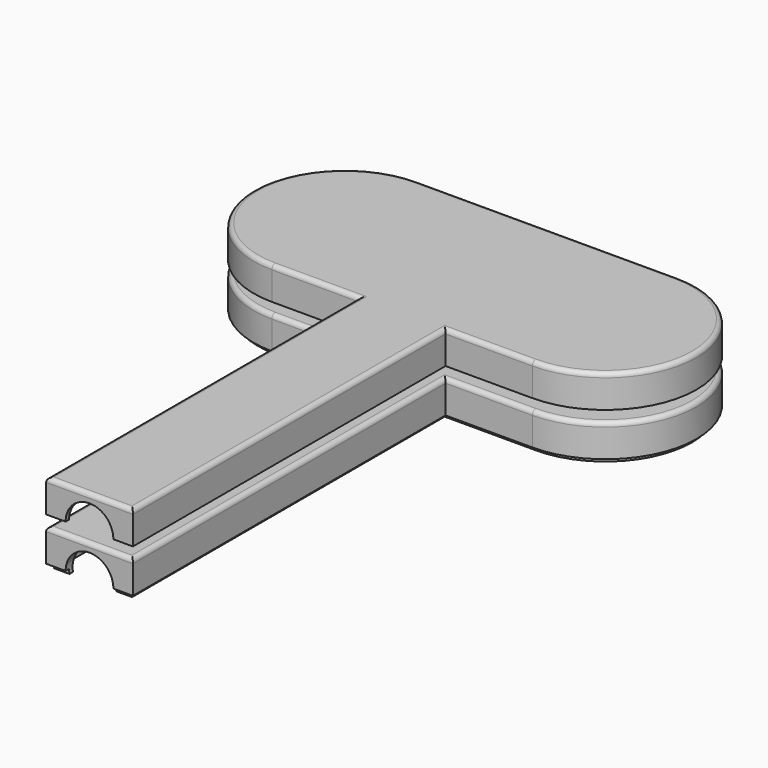
from build123d import *

# Parameters (mm, degrees)
PAD002_DEPTH    = 15
POCKET001_DEPTH = 13
FILLET001_R     = 2
SKETCH006_R     = 11
POCKET003_DEPTH = 5
PAD_DEPTH       = 15
PAD001_DEPTH    = 2
POCKET_DEPTH    = 15
FILLET_R        = 2
SKETCH005_R     = 11
POCKET002_DEPTH = 5


with BuildPart() as cover:
    # Sketch003 → Pad002 (new body)
    with BuildSketch(Plane.XY):
        with BuildLine():
            Line((-20, -180), (20, -180))
            Line((20, -180), (20, 0))
            Line((20, 0), (60, 0))
            ThreePointArc((60, 0), (102, 42), (60, 84))
            Line((60, 84), (-60, 84))
            ThreePointArc((-60, 84), (-102, 42), (-60, 0))
            Line((-60, 0), (-20, 0))
            Line((-20, 0), (-20, -180))
        make_face()
    extrude(amount=PAD002_DEPTH)

    # Sketch004 → Pocket001 (cut)
    with BuildSketch(Plane.XY):
        with BuildLine():
            Line((-18, -178), (18, -178))
            Line((18, -178), (18, 2))
            Line((18, 2), (60, 2))
            ThreePointArc((60, 2), (100, 42), (60, 82))
            Line((60, 82), (-60, 82))
            ThreePointArc((-60, 82), (-100, 42), (-60, 2))
            Line((-60, 2), (-18, 2))
            Line((-18, 2), (-18, -178))
        make_face()
    extrude(amount=POCKET001_DEPTH, mode=Mode.SUBTRACT)

    # Fillet001
    fillet001_edges = [cover.edges().sort_by_distance(p)[0] for p in [
        (0, -180, 15),
        (20, -90, 15),
        (40, 0, 15),
        (102, 42, 15),
        (0, 84, 15),
        (-102, 42, 15),
        (-40, 0, 15),
        (-20, -90, 15),
    ]]
    fillet(fillet001_edges, radius=FILLET001_R)

    # Sketch006 → Pocket003 (cut)
    with BuildSketch(Plane.XZ.offset(180)):
        Circle(SKETCH006_R)
    extrude(amount=-POCKET003_DEPTH, mode=Mode.SUBTRACT)


with BuildPart() as cover_1:
    # Body001 placement: moved
    add(cover.part.moved(Location((0, 0, 20))))


with BuildPart() as base:
    # Sketch → Pad (new body)
    with BuildSketch(Plane.XY):
        with BuildLine():
            Line((-20, -180), (20, -180))
            Line((20, -180), (20, 0))
            Line((20, 0), (60, 0))
            ThreePointArc((60, 0), (102, 42), (60, 84))
            Line((60, 84), (-60, 84))
            ThreePointArc((-60, 84), (-102, 42), (-60, 0))
            Line((-60, 0), (-20, 0))
            Line((-20, 0), (-20, -180))
        make_face()
    extrude(amount=PAD_DEPTH)

    # Sketch001 → Pad001 (join)
    with BuildSketch(Plane.XY):
        with BuildLine():
            Line((-18, -178), (18, -178))
            Line((18, -178), (18, 2))
            Line((18, 2), (60, 2))
            ThreePointArc((60, 2), (100, 42), (60, 82))
            Line((60, 82), (-60, 82))
            ThreePointArc((-60, 82), (-100, 42), (-60, 2))
            Line((-60, 2), (-18, 2))
            Line((-18, 2), (-18, -178))
        make_face()
    extrude(amount=-PAD001_DEPTH)

    # Sketch002 → Pocket (cut)
    with BuildSketch(Plane.XY.offset(-2)):
        with BuildLine():
            Line((-17, -176), (17, -176))
            Line((17, -176), (17, 4))
            Line((17, 4), (60, 4))
            ThreePointArc((60, 4), (98, 42), (60, 80))
            Line((60, 80), (-60, 80))
            ThreePointArc((-60, 80), (-98, 42), (-60, 4))
            Line((-60, 4), (-17, 4))
            Line((-17, 4), (-17, -176))
        make_face()
    extrude(amount=POCKET_DEPTH, mode=Mode.SUBTRACT)

    # Fillet
    fillet_edges = [base.edges().sort_by_distance(p)[0] for p in [
        (0, -180, 15),
        (20, -90, 15),
        (40, 0, 15),
        (102, 42, 15),
        (0, 84, 15),
        (-102, 42, 15),
        (-40, 0, 15),
        (-20, -90, 15),
    ]]
    fillet(fillet_edges, radius=FILLET_R)

    # Sketch005 → Pocket002 (cut)
    with BuildSketch(Plane.XZ.offset(180)):
        Circle(SKETCH005_R)
    extrude(amount=-POCKET002_DEPTH, mode=Mode.SUBTRACT)


solid = Compound([cover_1.part, base.part])
